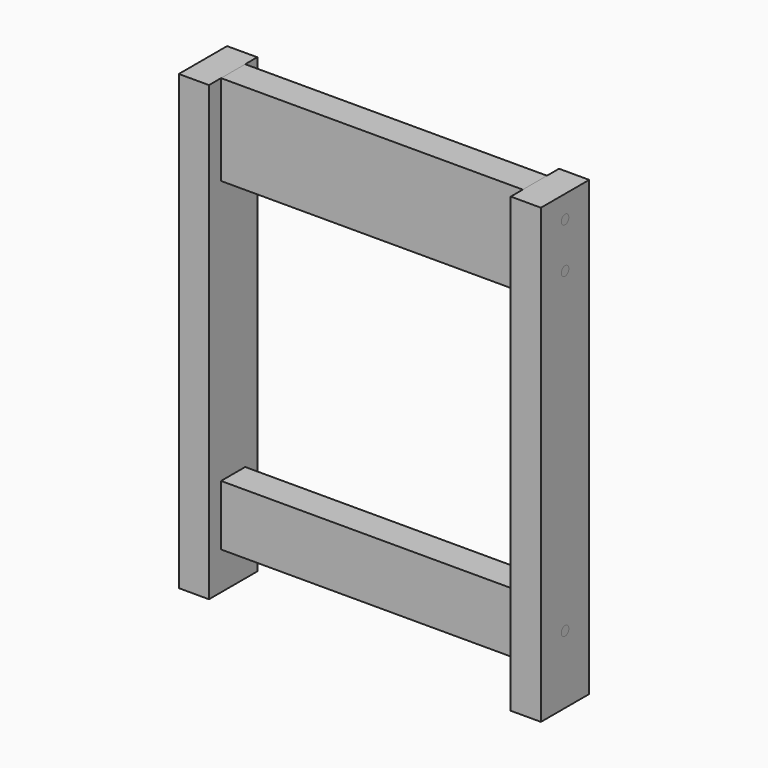
from build123d import *

# Parameters (mm, degrees)
F1_W      = 508
F1_H      = 152.4
F2_DEPTH  = 50.8
F3_W      = 101.6
F3_H      = 762
F4_DEPTH  = 50.8
F5_W      = 101.6
F5_H      = 762
F6_DEPTH  = 50.8
F8_W      = 508
F8_H      = 101.6
F9_DEPTH  = 50.8
F10_R     = 7.9375
F11_DEPTH = 88.9
F12_R     = 7.9375
F13_DEPTH = 88.9


with BuildPart() as f2:
    # F1 (on offset) → F2 (new body)
    with BuildSketch(Plane.XZ.offset(25.4)):
        with Locations((-8.510292, 0)):
            Rectangle(F1_W, F1_H)
    extrude(amount=-F2_DEPTH)


with BuildPart() as f4:
    # F3 (on face) → F4 (new body)
    with BuildSketch(Plane(origin=(-262.510292, 0, 0), x_dir=(0, -1, 0), z_dir=(-1, 0, 0))):
        with Locations((0, -304.8)):
            Rectangle(F3_W, F3_H)
    extrude(amount=F4_DEPTH)


with BuildPart() as f6:
    # F5 (on face) → F6 (new body)
    with BuildSketch(Plane.YZ.offset(245.489708)):
        with Locations((0, -304.8)):
            Rectangle(F5_W, F5_H)
    extrude(amount=F6_DEPTH)


with BuildPart() as f9:
    # F8 (on offset) → F9 (new body)
    with BuildSketch(Plane.XZ.offset(25.4)):
        with Locations((-8.510292, -571.5)):
            Rectangle(F8_W, F8_H)
    extrude(amount=-F9_DEPTH)


with BuildPart() as f11:
    # F10 (on face) → F11 (new body)
    with BuildSketch(Plane.YZ.offset(296.289708)):
        with Locations((0, 38.1)):
            Circle(F10_R)
        with Locations((0, -38.1)):
            Circle(F10_R)
        with Locations((0, -571.5)):
            Circle(F10_R)
    extrude(amount=-F11_DEPTH)


with BuildPart() as f13:
    # F12 (on face) → F13 (new body)
    with BuildSketch(Plane(origin=(-313.310292, 0, 0), x_dir=(0, -1, 0), z_dir=(-1, 0, 0))):
        with Locations((0, 38.1)):
            Circle(F12_R)
        with Locations((0, -38.1)):
            Circle(F12_R)
        with Locations((0, -571.5)):
            Circle(F12_R)
    extrude(amount=-F13_DEPTH)


solid = Compound([f2.part, f4.part, f6.part, f9.part, f11.part, f13.part])
